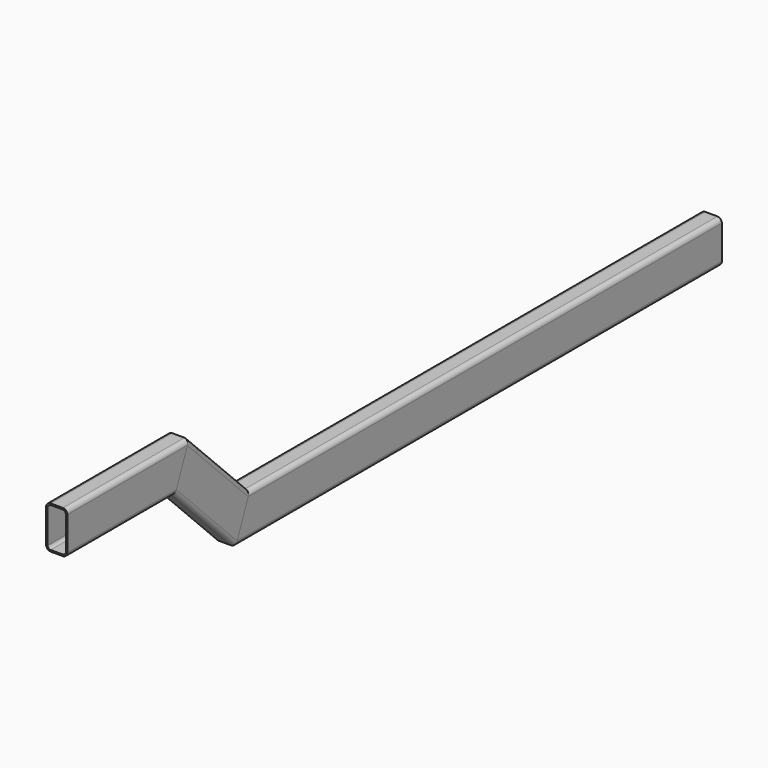
from build123d import *

# Parameters (mm, degrees)
F0_W     = 70
F0_H     = 140
F1_DEPTH = 1000
F3_DEPTH = 70
F4_DEPTH = 70
F5_R     = 15
F6_T     = -5
F8_DEPTH = 70
F9_R     = 15
F9_2_R   = 15
F10_T    = -5
F11_T    = -5


with BuildPart() as f1:
    # F0 (on Front) → F1 (new body, symmetric)
    with BuildSketch(Plane.XZ):
        Rectangle(F0_W, F0_H)
    extrude(amount=F1_DEPTH, both=True)

    # F2 (on face) → F3 (cut)
    with BuildSketch(Plane.YZ.offset(35)):
        Polygon((-1000, 70), (-1000, -70), (-942.010101, 70), align=None)
    extrude(amount=-F3_DEPTH, mode=Mode.SUBTRACT)

    # F5
    f5_edges = [f1.edges().sort_by_distance(p)[0] for p in [
        (35, 28.994949, 70),
        (-35, 28.994949, 70),
        (35, 0, -70),
        (-35, 0, -70),
    ]]
    fillet(f5_edges, radius=F5_R)

    # F6
    f6_openings = [f1.faces().sort_by_distance(p)[0] for p in [
        (0, -971.005051, 0),
        (0, 1000, 0),
    ]]
    offset(amount=F6_T, openings=f6_openings)


with BuildPart() as f4:
    # F2 (on face) → F4 (new body)
    with BuildSketch(Plane.YZ.offset(35)):
        Polygon((-1250, 180), (-1000, -70), (-1000, 70), (-942.010101, 70), (-1151.005051, 278.994949), (-1192.010101, 320), align=None)
        Polygon((-1000, 70), (-1000, -70), (-942.010101, 70), align=None)
    extrude(amount=-F4_DEPTH)

    # F9
    f9_edges = [f4.edges().sort_by_distance(p)[0] for p in [
        (35, -1067.010101, 195),
        (-35, -1067.010101, 195),
        (35, -1125, 55),
        (-35, -1125, 55),
    ]]
    fillet(f9_edges, radius=F9_R)

    # F10
    f10_openings = [f4.faces().sort_by_distance(p)[0] for p in [
        (0, -971.005051, 0),
        (0, -1221.005051, 250),
    ]]
    offset(amount=F10_T, openings=f10_openings)


with BuildPart() as f8:
    # F7 (on face) → F8 (new body)
    with BuildSketch(Plane(origin=(-35, 0, 0), x_dir=(0, -1, 0), z_dir=(-1, 0, 0))):
        Polygon((1692.010101, 320), (1192.010101, 320), (1250, 180), (1692.010101, 180), align=None)
    extrude(amount=-F8_DEPTH)

    # F9#2
    f9_2_edges = [f8.edges().sort_by_distance(p)[0] for p in [
        (35, -1471.005051, 180),
        (-35, -1471.005051, 180),
        (-35, -1442.010101, 320),
        (35, -1442.010101, 320),
    ]]
    fillet(f9_2_edges, radius=F9_2_R)

    # F11
    f11_openings = [f8.faces().sort_by_distance(p)[0] for p in [
        (0, -1221.005051, 250),
        (0, -1692.010101, 250),
    ]]
    offset(amount=F11_T, openings=f11_openings)


solid = Compound([f1.part, f4.part, f8.part])
